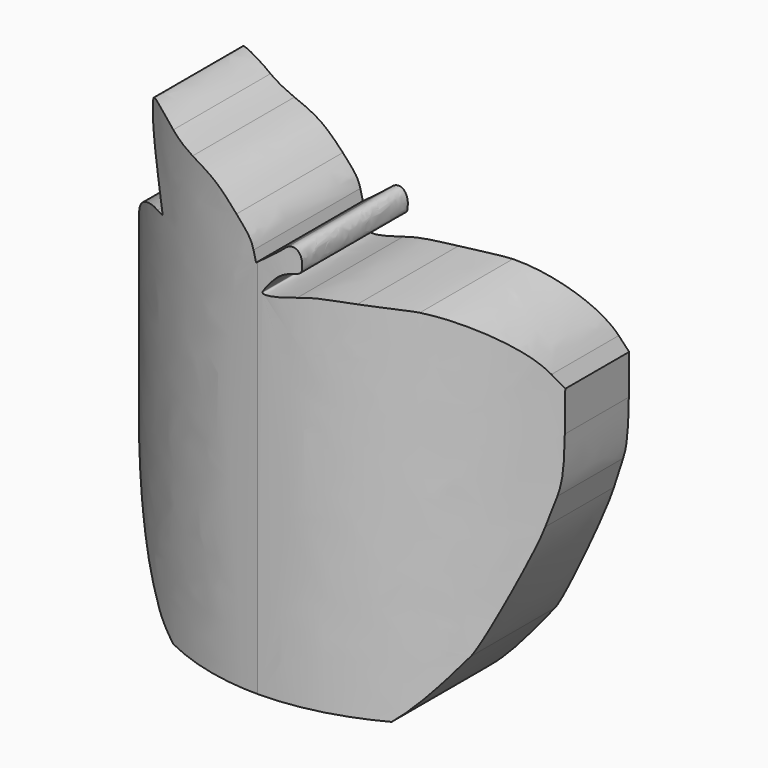
from build123d import *

# Parameters (mm, degrees)
F1_DEPTH = 70
F4_START = -26.4738228566
F4_DEPTH = 34.7942561736


with BuildPart() as f1:
    # F0 (on Top) → F1 (new body)
    with BuildSketch(Plane.XY):
        with BuildLine():
            add(Edge.make_bspline(
                [(-88.7051467266, 16.6805667829), (-72.0766470529, 16.705851062), (-57.2644811048, 30.6447847306), (-51.7332588047, 51.4728227566)],
                knots=[0, 0, 0, 0, 1, 1, 1, 1], degree=3))
            add(Edge.make_bspline(
                [(-51.7332588047, 51.4728227566), (-59.443724503, 40.766943151), (-73.6588424914, 34.1698297226), (-89.0460074139, 34.1563003118)],
                knots=[0, 0, 0, 0, 1, 1, 1, 1], degree=3))
            add(Edge.make_bspline(
                [(-89.0460074139, 34.1563003118), (-103.6763083349, 34.1592473901), (-117.3092249099, 40.1193384373), (-125.2651509483, 49.9907256778)],
                knots=[0, 0, 0, 0, 1, 1, 1, 1], degree=3))
            add(Edge.make_bspline(
                [(-125.2651509483, 49.9907256778), (-119.4183709297, 29.9340578495), (-104.8983523143, 16.7047336118), (-88.7051467266, 16.6805667829)],
                knots=[0, 0, 0, 0, 1, 1, 1, 1], degree=3))
        make_face()
    extrude(amount=F1_DEPTH)

    # F3 (on offset) → F4 (intersect)
    with BuildSketch(Plane.XZ.offset(-25).offset(F4_START)):
        with BuildLine():
            add(Edge.make_bspline(
                [(-91.3750528758, -1.2770446513), (-91.8762258758, -0.9260106513), (-92.2089608758, -0.8978456513), (-93.0606278758, -1.1343616513)],
                knots=[0, 0, 0, 0, 1, 1, 1, 1], degree=3))
            add(Edge.make_bspline(
                [(-85.2462198758, -1.2415836513), (-86.9851208758, -1.8591846513), (-90.5147748758, -1.8796086513), (-91.3750528758, -1.2770446513)],
                knots=[0, 0, 0, 0, 1, 1, 1, 1], degree=3))
            add(Edge.make_bspline(
                [(-82.7331858758, -1.2415836513), (-83.8386028758, -0.7992816513), (-84.0008968758, -0.7992816513), (-85.2462198758, -1.2415836513)],
                knots=[0, 0, 0, 0, 1, 1, 1, 1], degree=3))
            add(Edge.make_bspline(
                [(-75.7733208758, -1.0499266513), (-77.5477278758, -1.8762196513), (-80.9153078758, -1.9689516513), (-82.7331858758, -1.2415836513)],
                knots=[0, 0, 0, 0, 1, 1, 1, 1], degree=3))
            add(Edge.make_bspline(
                [(-67.4728488758, 7.8356423487), (-71.0014738758, 2.7951843487), (-73.6849158758, -0.0774116513), (-75.7733208758, -1.0499266513)],
                knots=[0, 0, 0, 0, 1, 1, 1, 1], degree=3))
            add(Edge.make_bspline(
                [(-62.1136608758, 22.2744703487), (-62.8239438758, 19.0850823487), (-66.4649798758, 9.2753313487), (-67.4728488758, 7.8356423487)],
                knots=[0, 0, 0, 0, 1, 1, 1, 1], degree=3))
            add(Edge.make_bspline(
                [(-61.3234838758, 25.6611373487), (-61.5679558758, 24.6521923487), (-61.9235328758, 23.1281923487), (-62.1136608758, 22.2744703487)],
                knots=[0, 0, 0, 0, 1, 1, 1, 1], degree=3))
            add(Edge.make_bspline(
                [(-60.8492658758, 32.7166923487), (-60.8703188758, 29.0191583487), (-61.0086988758, 26.9602703487), (-61.3234838758, 25.6611373487)],
                knots=[0, 0, 0, 0, 1, 1, 1, 1], degree=3))
            Line((-60.8492658758, 32.7166923487), (-60.8195418758, 37.9378033487))
            Line((-60.8195418758, 37.9378033487), (-61.7062528758, 39.7722483487))
            add(Edge.make_bspline(
                [(-71.6284328758, 47.3625923487), (-67.6290558758, 46.5285713487), (-63.4131108758, 43.3034263487), (-61.7062528758, 39.7722483487)],
                knots=[0, 0, 0, 0, 1, 1, 1, 1], degree=3))
            add(Edge.make_bspline(
                [(-77.4139888758, 47.6696333487), (-75.0544888758, 47.6721733487), (-72.4509888758, 47.5341243487), (-71.6284328758, 47.3625923487)],
                knots=[0, 0, 0, 0, 1, 1, 1, 1], degree=3))
            add(Edge.make_bspline(
                [(-83.8206528758, 47.0741753487), (-82.1034608758, 47.5533293487), (-80.8943448758, 47.6657103487), (-77.4139888758, 47.6696333487)],
                knots=[0, 0, 0, 0, 1, 1, 1, 1], degree=3))
            add(Edge.make_bspline(
                [(-88.0539868758, 46.4762053487), (-88.0539868758, 46.1163583487), (-86.4323738758, 46.3454153487), (-83.8206528758, 47.0741753487)],
                knots=[0, 0, 0, 0, 1, 1, 1, 1], degree=3))
            add(Edge.make_bspline(
                [(-86.9321728758, 48.0227833487), (-87.5491698758, 47.3218363487), (-88.0539868758, 46.6258763487), (-88.0539868758, 46.4762053487)],
                knots=[0, 0, 0, 0, 1, 1, 1, 1], degree=3))
            add(Edge.make_bspline(
                [(-84.5332838758, 49.6188033487), (-85.4783308758, 49.3808393487), (-86.1020158758, 48.9658913487), (-86.9321728758, 48.0227833487)],
                knots=[0, 0, 0, 0, 1, 1, 1, 1], degree=3))
            add(Edge.make_bspline(
                [(-83.2562088758, 51.0087563487), (-83.2562088758, 49.9771753487), (-83.3001958758, 49.9292983487), (-84.5332838758, 49.6188033487)],
                knots=[0, 0, 0, 0, 1, 1, 1, 1], degree=3))
            add(Edge.make_bspline(
                [(-85.2821608758, 52.3875273487), (-84.3364258758, 53.3180623487), (-83.2562088758, 52.5829133487), (-83.2562088758, 51.0087563487)],
                knots=[0, 0, 0, 0, 1, 1, 1, 1], degree=3))
            add(Edge.make_bspline(
                [(-87.2725578758, 50.8303303487), (-86.3829538758, 51.4849723487), (-85.4872768758, 52.1857103487), (-85.2821608758, 52.3875273487)],
                knots=[0, 0, 0, 0, 1, 1, 1, 1], degree=3))
            Line((-87.2725578758, 50.8303303487), (-88.8900218758, 49.6400743487))
            Line((-88.8900218758, 49.6400743487), (-89.2244638758, 50.9856053487))
            add(Edge.make_bspline(
                [(-91.5581108758, 54.3223073487), (-89.9462668758, 52.7169433487), (-89.4941038758, 52.0704283487), (-89.2244638758, 50.9856053487)],
                knots=[0, 0, 0, 0, 1, 1, 1, 1], degree=3))
            add(Edge.make_bspline(
                [(-98.5305468758, 58.1240303487), (-95.2667478758, 57.4265573487), (-93.9589108758, 56.7134583487), (-91.5581108758, 54.3223073487)],
                knots=[0, 0, 0, 0, 1, 1, 1, 1], degree=3))
            add(Edge.make_bspline(
                [(-102.3225468758, 59.2530233487), (-101.5979178758, 58.9229163487), (-99.8915178758, 58.4148713487), (-98.5305468758, 58.1240303487)],
                knots=[0, 0, 0, 0, 1, 1, 1, 1], degree=3))
            add(Edge.make_bspline(
                [(-107.0566968758, 60.2905573487), (-106.4222188758, 60.5340303487), (-103.9407158758, 59.9901853487), (-102.3225468758, 59.2530233487)],
                knots=[0, 0, 0, 0, 1, 1, 1, 1], degree=3))
            add(Edge.make_bspline(
                [(-106.6506778758, 53.9678623487), (-107.6694438758, 57.1818453487), (-107.8495358758, 59.9863163487), (-107.0566968758, 60.2905573487)],
                knots=[0, 0, 0, 0, 1, 1, 1, 1], degree=3))
            add(Edge.make_bspline(
                [(-105.2701258758, 49.6151633487), (-105.5472738758, 50.4880593487), (-106.1685238758, 52.4467743487), (-106.6506778758, 53.9678623487)],
                knots=[0, 0, 0, 0, 1, 1, 1, 1], degree=3))
            Line((-105.2701258758, 49.6151633487), (-104.7662158758, 48.0280753487))
            Line((-104.7662158758, 48.0280753487), (-106.1546138758, 47.8636413487))
            add(Edge.make_bspline(
                [(-114.4771008758, 41.9386253487), (-112.7575948758, 44.8606473487), (-109.0154008758, 47.5248223487), (-106.1546138758, 47.8636413487)],
                knots=[0, 0, 0, 0, 1, 1, 1, 1], degree=3))
            add(Edge.make_bspline(
                [(-117.4375928758, 26.6419603487), (-118.0079998758, 32.5248403487), (-117.0235758758, 37.6112983487), (-114.4771008758, 41.9386253487)],
                knots=[0, 0, 0, 0, 1, 1, 1, 1], degree=3))
            add(Edge.make_bspline(
                [(-112.0303308758, 10.9846613487), (-115.3706058758, 16.7898623487), (-116.9162938758, 21.2655623487), (-117.4375928758, 26.6419603487)],
                knots=[0, 0, 0, 0, 1, 1, 1, 1], degree=3))
            add(Edge.make_bspline(
                [(-105.6055138758, 2.1575603487), (-108.2946508758, 4.9365913487), (-109.5152088758, 6.6135243487), (-112.0303308758, 10.9846613487)],
                knots=[0, 0, 0, 0, 1, 1, 1, 1], degree=3))
            add(Edge.make_bspline(
                [(-99.8638828758, -0.9750646513), (-101.8044088758, -0.4191316513), (-104.5747958758, 1.0923883487), (-105.6055138758, 2.1575603487)],
                knots=[0, 0, 0, 0, 1, 1, 1, 1], degree=3))
            add(Edge.make_bspline(
                [(-93.0606278758, -1.1343616513), (-94.6417498758, -1.5734546513), (-98.0540478758, -1.4935546513), (-99.8638828758, -0.9750646513)],
                knots=[0, 0, 0, 0, 1, 1, 1, 1], degree=3))
        make_face()
    extrude(amount=F4_DEPTH, mode=Mode.INTERSECT)


solid = f1.part
